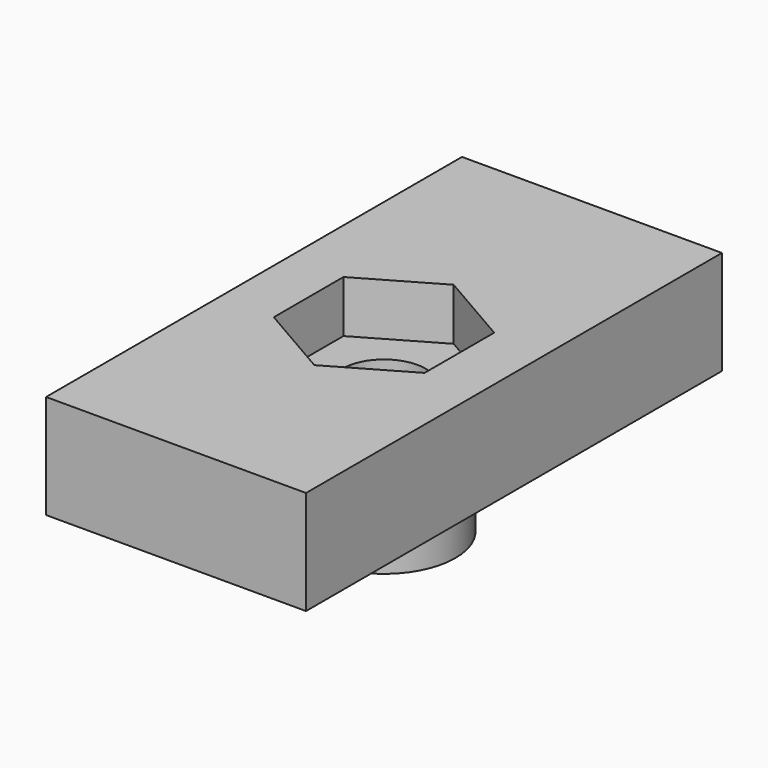
from build123d import *

# Parameters (mm, degrees)
SKETCH006_R   = 2.75
SKETCH006_R_2 = 1.6
PAD005_DEPTH  = 3
SKETCH008_R   = 3.5
SKETCH008_R_2 = 1.6
PAD006_DEPTH  = 2
SKETCH007_W   = 10
SKETCH007_H   = 20
PAD007_DEPTH  = 4


with BuildPart() as part:
    # Sketch006 → Pad005 (new body)
    with BuildSketch(Plane.XY):
        Circle(SKETCH006_R)
        Circle(SKETCH006_R_2, mode=Mode.SUBTRACT)
    extrude(amount=-PAD005_DEPTH)

    # Sketch008 → Pad006 (join)
    with BuildSketch(Plane.XY):
        Circle(SKETCH008_R)
        Circle(SKETCH008_R_2, mode=Mode.SUBTRACT)
    extrude(amount=PAD006_DEPTH)

    # Sketch007 → Pad007 (join)
    with BuildSketch(Plane.XY):
        Rectangle(SKETCH007_W, SKETCH007_H)
        Polygon((0, -3.348632), (2.9, -1.674316), (2.9, 1.674316), (0, 3.348632), (-2.9, 1.674316), (-2.9, -1.674316), align=None, mode=Mode.SUBTRACT)
    extrude(amount=PAD007_DEPTH)


solid = part.part
